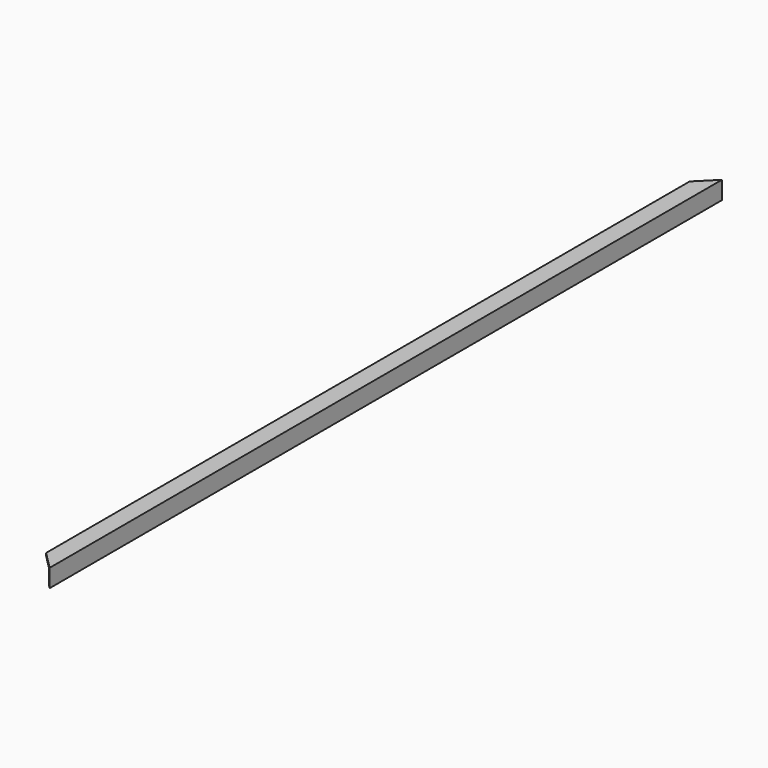
from build123d import *

# Parameters (mm, degrees)
F1_DEPTH = 15
F3_DEPTH = 85


with BuildPart() as f1:
    # F0 (on Top) → F1 (new body)
    with BuildSketch(Plane.XY):
        Polygon((-100, -2240.5), (0, -2340.5), (0, 2340.5), (-100, 2240.5), align=None)
    extrude(amount=F1_DEPTH)

    # F2 (on face) → F3 (join)
    with BuildSketch(Plane.XY.offset(15)):
        Polygon((-15, -2325.5), (0, -2340.5), (0, 2340.5), (-15, 2325.5), align=None)
    extrude(amount=F3_DEPTH)


with BuildPart() as f4_1:
    # F4: instance of F1
    add(f1.part.mirror(Plane.XY))


solid = f4_1.part
